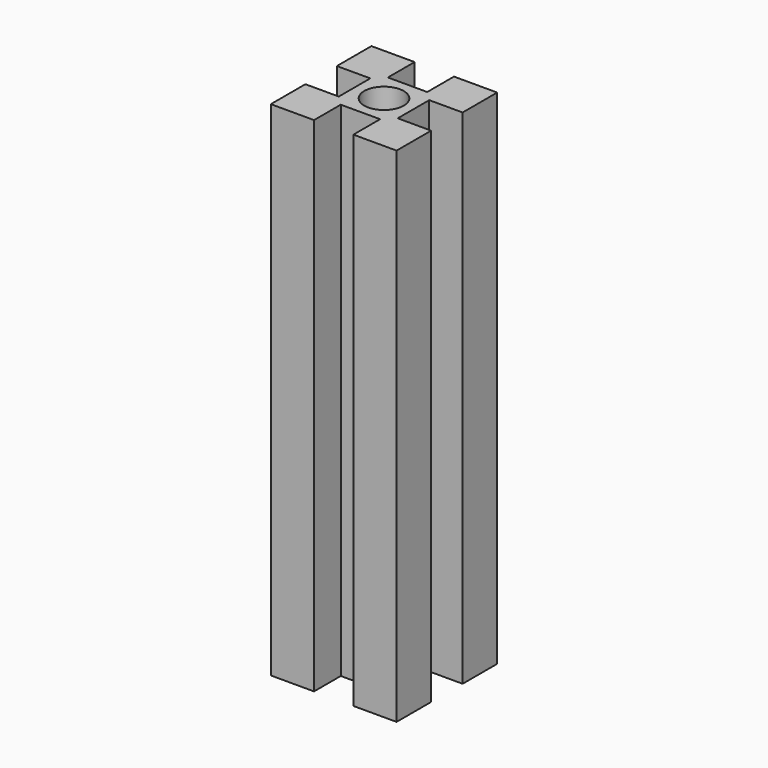
from build123d import *

# Parameters (mm, degrees)
F1_DEPTH = 50.8
F2_R     = 2
F3_DEPTH = 50


with BuildPart() as f1:
    # F0 (on Top) → F1 (new body)
    with BuildSketch(Plane.XY):
        Polygon((-1.9875, 6.35), (-6.35, 6.35), (-6.35, 1.9875), (-2.975, 1.9875), (-2.975, -1.9875), (-6.35, -1.9875), (-6.35, -6.35), (-1.9875, -6.35), (-1.9875, -2.975), (1.9875, -2.975), (1.9875, -6.35), (6.35, -6.35), (6.35, -1.9875), (2.975, -1.9875), (2.975, 1.9875), (6.35, 1.9875), (6.35, 6.35), (1.9875, 6.35), (1.9875, 2.975), (-1.9875, 2.975), align=None)
    extrude(amount=F1_DEPTH)

    # F2 (on face) → F3 (cut)
    with BuildSketch(Plane.XY.offset(50.8)):
        Circle(F2_R)
    extrude(amount=-F3_DEPTH, mode=Mode.SUBTRACT)


solid = f1.part
